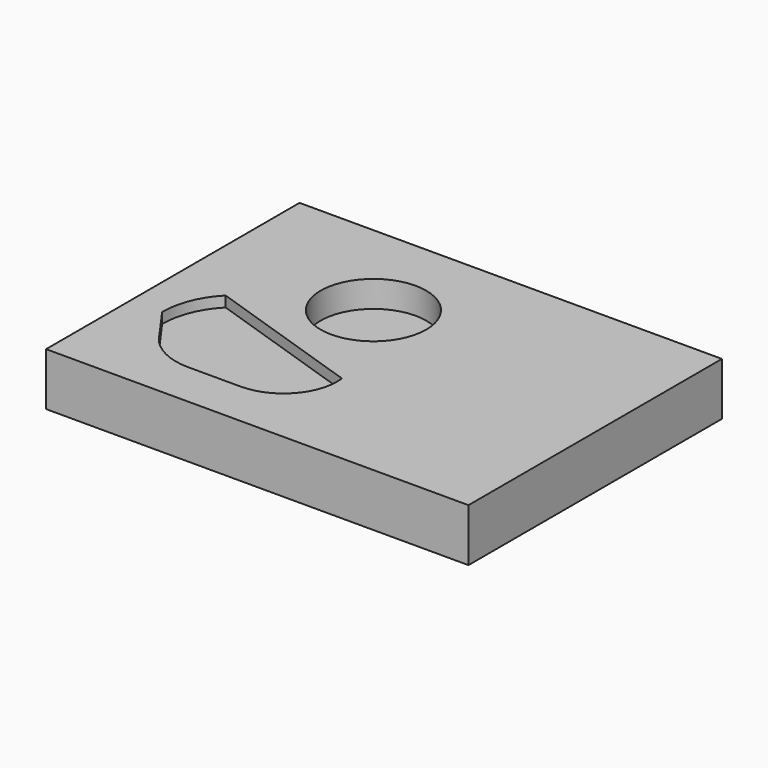
from build123d import *

# Parameters (mm, degrees)
SKETCH_W        = 80
SKETCH_H        = 60
PAD_DEPTH       = 10
SKETCH001_R     = 10
POCKET_DEPTH    = 5
POCKET001_DEPTH = 2


with BuildPart() as part:
    # Sketch → Pad (new body)
    with BuildSketch(Plane.XY):
        Rectangle(SKETCH_W, SKETCH_H)
    extrude(amount=PAD_DEPTH)

    # Sketch001 (on Face6 of Pad) → Pocket (cut)
    with BuildSketch(Plane.XY.offset(10)):
        with Locations((-10, 10)):
            Circle(SKETCH001_R)
    extrude(amount=-POCKET_DEPTH, mode=Mode.SUBTRACT)

    # Sketch002 (on Face5 of Pocket) → Pocket001 (cut)
    with BuildSketch(Plane.XY.offset(10)):
        with BuildLine():
            ThreePointArc((-30.000583, 0), (-33.010965, -4.59723), (-34.023498, -9.998313))
            Line((-29.997176, -15.631595), (-34.023498, -9.998313))
            ThreePointArc((-29.997176, -15.631595), (-25.76815, -19.846144), (-19.999989, -21.387374))
            Line((-10.000209, -21.387374), (-19.999989, -21.387374))
            ThreePointArc((-10.000209, -21.387374), (-2.422236, -17.948362), (0.037886, -9.998502))
            Line((-30.000583, 0), (0.037886, -9.998502))
        make_face()
    extrude(amount=-POCKET001_DEPTH, mode=Mode.SUBTRACT)


solid = part.part
